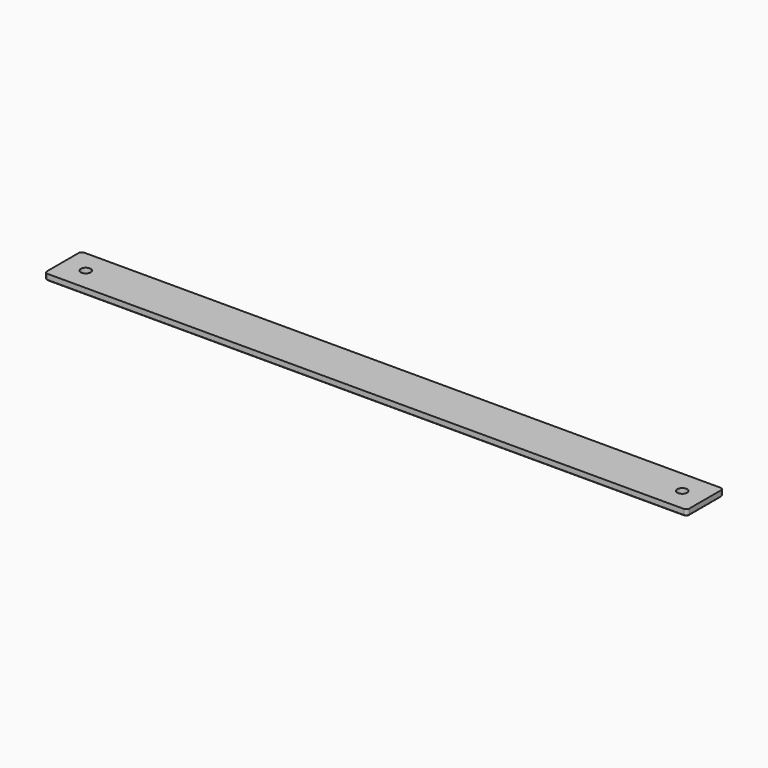
from build123d import *

# Parameters (mm, degrees)
F0_W     = 210
F0_H     = 15
F0_R     = 1.6
F1_DEPTH = 2
F2_R     = 1
F3_SIZE  = 0.25


with BuildPart() as f1:
    # F0 (on Top) → F1 (new body)
    with BuildSketch(Plane.XY):
        Rectangle(F0_W, F0_H)
        with Locations((-97.5, 0)):
            Circle(F0_R, mode=Mode.SUBTRACT)
        with Locations((97.5, 0)):
            Circle(F0_R, mode=Mode.SUBTRACT)
    extrude(amount=F1_DEPTH)

    # F2
    f2_edges = [f1.edges().sort_by_distance(p)[0] for p in [
        (-105, 7.5, 1),
        (-105, -7.5, 1),
        (105, 7.5, 1),
        (105, -7.5, 1),
    ]]
    fillet(f2_edges, radius=F2_R)

    # F3
    f3_edges = [f1.edges().sort_by_distance(p)[0] for p in [
        (0, -7.5, 0),
        (-104.707107, -7.207107, 0),
        (104.707107, -7.207107, 0),
        (-105, 0, 0),
        (105, 0, 0),
        (-104.707107, 7.207107, 0),
        (104.707107, 7.207107, 0),
        (0, 7.5, 0),
        (-99.1, 0, 0),
        (95.9, 0, 0),
    ]]
    chamfer(f3_edges, length=F3_SIZE)


solid = f1.part
